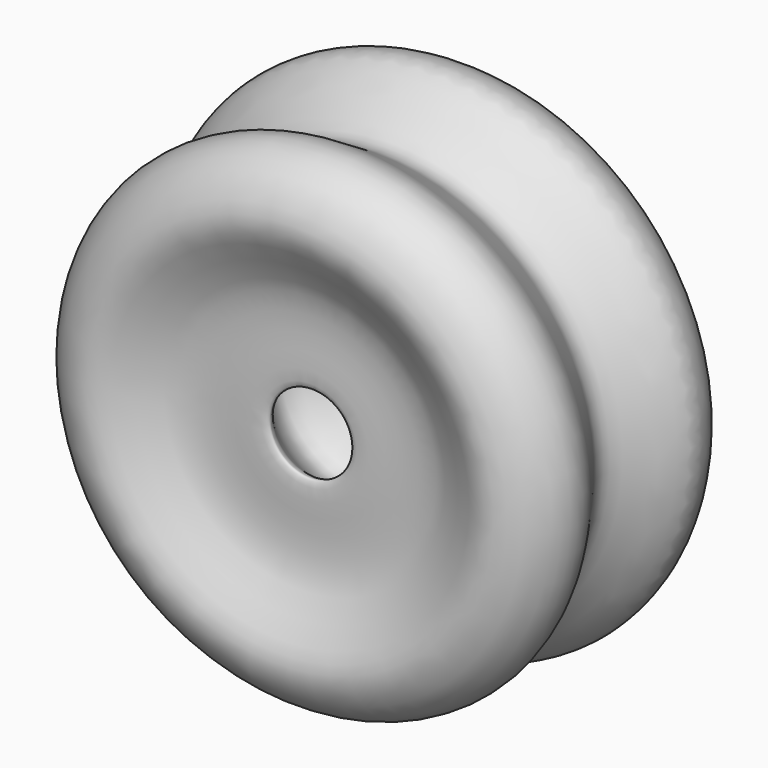
from build123d import *


with BuildPart() as f1:
    # F0 (on Top) → F1 (revolve)
    with BuildSketch(Plane.XY):
        with BuildLine():
            add(Edge.make_bspline(
                [(-32.8026749194, 45.2106446028), (-38.9680684359, 42.5527823936), (-56.6089008814, 18.2334717231), (-13.9307961165, -0.5650926114), (-50.2624722743, -31.2745344423), (-15.1264671865, -60.6333323603), (6.2151298618, -30.043143714), (60.2318189216, -41.5143208823), (3.2480235611, -4.0162985499), (61.7711864212, 17.2066678678), (-11.0245843964, 27.3395429807), (71.0093168978, 82.4108991868), (-18.0180552161, 36.0132509876), (-27.6487184948, 47.432482669), (-32.8026749194, 45.2106446028)],
                knots=[0, 0, 0, 0, 0.0762012793, 0.1574523539, 0.2399986107, 0.3180455694, 0.4035881067, 0.4840268373, 0.5697939614, 0.647625055, 0.7313452842, 0.8245343976, 0.9362995935, 1, 1, 1, 1], degree=3))
        make_face()
    revolve(axis=Axis((54.7662042081, 4.9917120486, 0), (0.0547124809, -0.9985021504, 0)))


solid = f1.part
